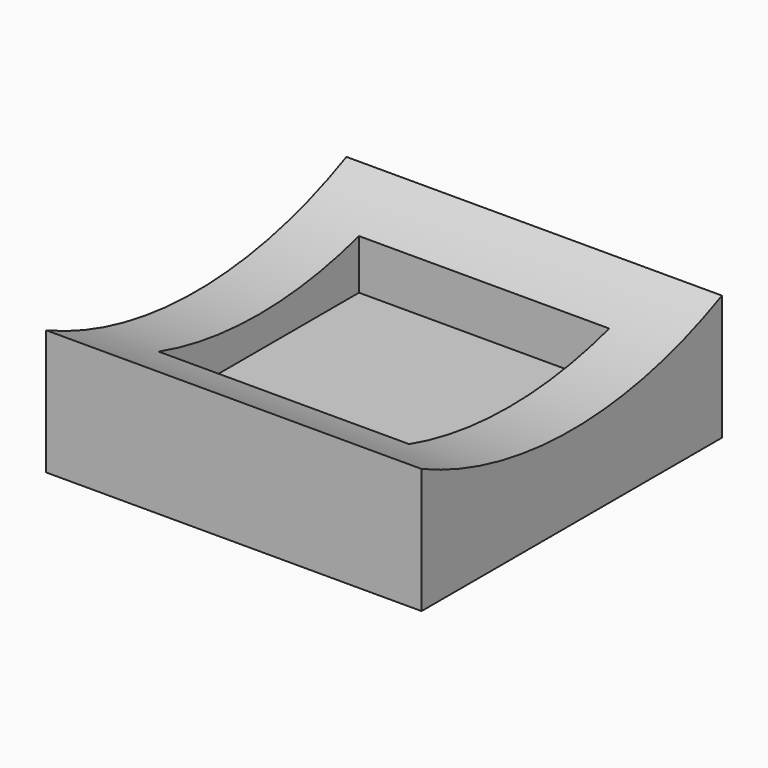
from build123d import *

# Parameters (mm, degrees)
F0_W     = 19.05
F0_H     = 19.05
F1_DEPTH = 6.35
F2_W     = 12.7
F2_H     = 12.7
F3_DEPTH = 3.74281
F5_DEPTH = 25.4


with BuildPart() as f1:
    # F0 (on Top) → F1 (new body)
    with BuildSketch(Plane.XY):
        Rectangle(F0_W, F0_H)
    extrude(amount=F1_DEPTH)

    # F2 (on face) → F3 (cut)
    with BuildSketch(Plane.XY.offset(6.35)):
        Rectangle(F2_W, F2_H)
    extrude(amount=-F3_DEPTH, mode=Mode.SUBTRACT)

    # F4 (on face) → F5 (cut)
    with BuildSketch(Plane.YZ.offset(9.525)):
        with BuildLine():
            Line((9.525, 6.35), (-9.525, 6.35))
            ThreePointArc((-9.525, 6.35), (0, 4.214056), (9.525, 6.35))
        make_face()
    extrude(amount=-F5_DEPTH, mode=Mode.SUBTRACT)


solid = f1.part
